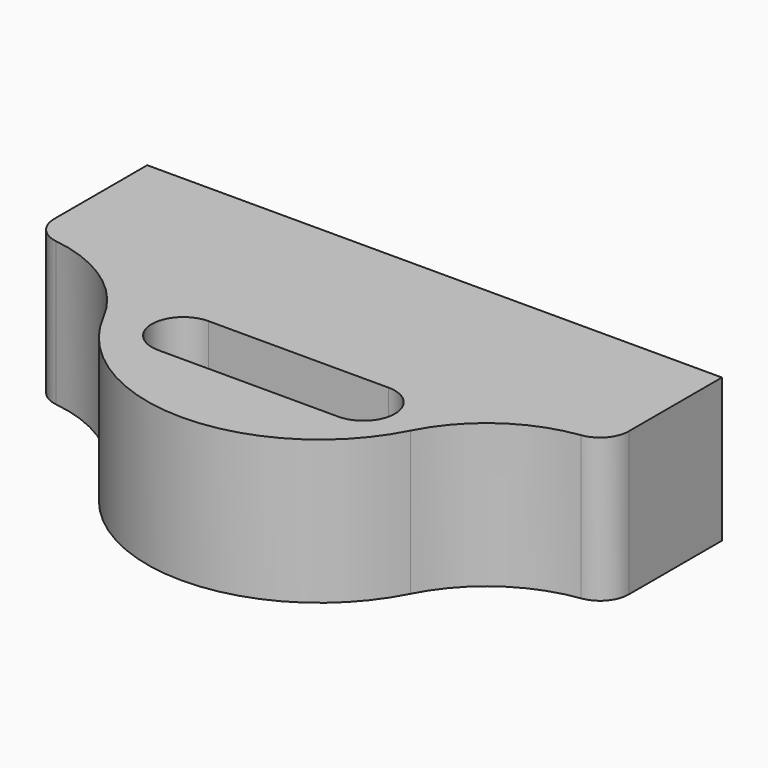
from build123d import *

# Parameters (mm, degrees)
F1_DEPTH = 25.4
F2_R     = 5.08


with BuildPart() as f1:
    # F0 (on Top) → F1 (new body)
    with BuildSketch(Plane.XY):
        with BuildLine():
            Line((50.8, 25.4), (-50.8, 25.4))
            Line((-50.8, 25.4), (-50.8, 0))
            ThreePointArc((-50.8, 0), (-49.784, 0.020328), (-48.768, 0))
            Line((-48.768, 0), (48.768, 0))
            ThreePointArc((48.768, 0), (49.784, 0.020328), (50.8, 0))
            Line((50.8, 0), (50.8, 25.4))
        make_face()
        with BuildLine():
            ThreePointArc((-48.768, 0), (-49.784, 0.020328), (-50.8, 0))
            Line((-50.8, 0), (-48.768, 0))
        make_face()
        with BuildLine():
            Line((48.768, 0), (50.8, 0))
            ThreePointArc((50.8, 0), (49.784, 0.020328), (48.768, 0))
        make_face()
        with BuildLine():
            Line((48.768, 0), (-48.768, 0))
            ThreePointArc((-48.768, 0), (-36.084259, -3.990958), (-27.154909, -13.843457))
            ThreePointArc((-27.154909, -13.843457), (0, -30.48), (27.154909, -13.843457))
            ThreePointArc((27.154909, -13.843457), (36.084259, -3.990958), (48.768, 0))
        make_face()
        with BuildLine():
            ThreePointArc((-15.082003, -16.828841), (-20.638888, -11.271955), (-15.082003, -5.715069))
            Line((-15.082003, -5.715069), (16.772009, -5.715069))
            ThreePointArc((16.772009, -5.715069), (22.328895, -11.271955), (16.772009, -16.828841))
            Line((16.772009, -16.828841), (-15.082003, -16.828841))
        make_face(mode=Mode.SUBTRACT)
    extrude(amount=F1_DEPTH)

    # F2
    f2_edges = [f1.edges().sort_by_distance(p)[0] for p in [
        (-50.8, 0, 12.7),
        (50.8, 0, 12.7),
    ]]
    fillet(f2_edges, radius=F2_R)


solid = f1.part
